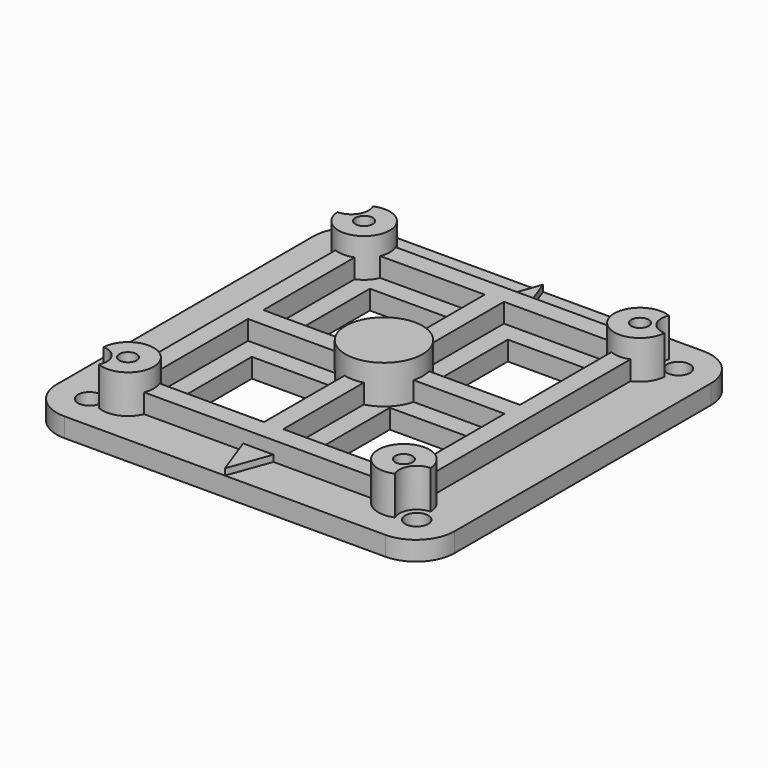
from build123d import *

# Parameters (mm, degrees)
F0_W      = 31
F0_H      = 31
F0_R      = 0.9
F1_DEPTH  = 1.5
F2_R      = 2
F2_R_2    = 0.675
F3_DEPTH  = 3
F4_R      = 3
F6_DEPTH  = 1.5
F7_W      = 6.25
F7_H      = 7
F8_DEPTH  = 25
F9_R      = 3
F10_DEPTH = 3
F11_DEPTH = 25
F12_R     = 1.35
F13_DEPTH = 25
F14_DEPTH = 25
F16_DEPTH = 0.5


with BuildPart() as f1:
    # F0 (on Top) → F1 (new body)
    with BuildSketch(Plane.XY):
        Rectangle(F0_W, F0_H)
        with Locations((-12.75, -12.75)):
            Circle(F0_R, mode=Mode.SUBTRACT)
        with Locations((12.75, -12.75)):
            Circle(F0_R, mode=Mode.SUBTRACT)
        with Locations((-12.75, 12.75)):
            Circle(F0_R, mode=Mode.SUBTRACT)
        with Locations((12.75, 12.75)):
            Circle(F0_R, mode=Mode.SUBTRACT)
    extrude(amount=F1_DEPTH)

    # F2 (on face) → F3 (join)
    with BuildSketch(Plane.XY.offset(1.5)):
        with Locations((-10.75, 11.5)):
            Circle(F2_R)
        with Locations((-10.75, 11.5)):
            Circle(F2_R_2, mode=Mode.SUBTRACT)
        with Locations((10.75, 11.5)):
            Circle(F2_R)
        with Locations((10.75, 11.5)):
            Circle(F2_R_2, mode=Mode.SUBTRACT)
        with Locations((10.75, -11.5)):
            Circle(F2_R)
        with Locations((10.75, -11.5)):
            Circle(F2_R_2, mode=Mode.SUBTRACT)
        with Locations((-10.75, -11.5)):
            Circle(F2_R)
        with Locations((-10.75, -11.5)):
            Circle(F2_R_2, mode=Mode.SUBTRACT)
    extrude(amount=F3_DEPTH)

    # F4
    f4_edges = [f1.edges().sort_by_distance(p)[0] for p in [
        (-15.5, 15.5, 0.75),
        (15.5, 15.5, 0.75),
        (15.5, -15.5, 0.75),
        (-15.5, -15.5, 0.75),
    ]]
    fillet(f4_edges, radius=F4_R)

    # F5 (on face) → F6 (join)
    with BuildSketch(Plane.XY.offset(1.5)):
        Polygon((-0.75, -10.75), (-8.8959503782, -10.75), (-8.8959503782, -12.25), (8.8959503782, -12.25), (8.8959503782, -10.75), (0.75, -10.75), align=None)
        Polygon((-0.75, -0.75), (-0.75, -10.75), (0.75, -10.75), (0.75, -0.75), (10, -0.75), (10, 0.75), (0.75, 0.75), (0.75, 10.75), (-0.75, 10.75), (-0.75, 0.75), (-10, 0.75), (-10, -0.75), align=None)
        Polygon((-10, -9.6459503782), (-10, -0.75), (-10, 0.75), (-10, 9.6459503782), (-11.5, 9.6459503782), (-11.5, -9.6459503782), align=None)
        Polygon((10, 0.75), (10, -0.75), (10, -9.6459503782), (11.5, -9.6459503782), (11.5, 9.6459503782), (10, 9.6459503782), align=None)
        Polygon((-8.8959503782, 10.75), (-0.75, 10.75), (0.75, 10.75), (8.8959503782, 10.75), (8.8959503782, 12.25), (-8.8959503782, 12.25), align=None)
    extrude(amount=F6_DEPTH)

    # F7 (on face) → F8 (cut)
    with BuildSketch(Plane.XY.offset(1.5)):
        with Locations((-5.375, 5.75)):
            Rectangle(F7_W, F7_H)
        with Locations((5.375, 5.75)):
            Rectangle(F7_W, F7_H)
        with Locations((5.375, -5.75)):
            Rectangle(F7_W, F7_H)
        with Locations((-5.375, -5.75)):
            Rectangle(F7_W, F7_H)
    extrude(amount=-F8_DEPTH, mode=Mode.SUBTRACT)

    # F9 (on face) → F10 (join, through all)
    with BuildSketch(Plane.XY.offset(1.5)):
        Circle(F9_R)
    extrude(amount=F10_DEPTH)

    # F11 (cut): faces of the model
    f11_faces = [f1.faces().sort_by_distance(p)[0] for p in [
        (-12.2340646667, -12.4275404167, 1.5),
        (-12.2340646667, 12.4275404167, 1.5),
        (12.2340646667, 12.4275404167, 1.5),
        (12.2340646667, -12.4275404167, 1.5),
    ]]
    extrude(f11_faces, amount=-F11_DEPTH, mode=Mode.SUBTRACT)

    # F12 (on face) → F13 (cut)
    with BuildSketch(Plane.XY.offset(1.5)):
        with Locations((-12.75, -12.75)):
            Circle(F12_R)
        with Locations((12.75, -12.75)):
            Circle(F12_R)
        with Locations((-12.75, 12.75)):
            Circle(F12_R)
        with Locations((12.75, 12.75)):
            Circle(F12_R)
    extrude(amount=F13_DEPTH, mode=Mode.SUBTRACT)

    # F14 (cut): faces of the model
    f14_faces = [f1.faces().sort_by_distance(p)[0] for p in [
        (10.75, 11.5, 1.5),
        (-10.75, 11.5, 1.5),
        (-10.75, -11.5, 1.5),
        (10.75, -11.5, 1.5),
    ]]
    extrude(f14_faces, amount=-F14_DEPTH, mode=Mode.SUBTRACT)

    # F15 (on face) → F16 (join)
    with BuildSketch(Plane.XY.offset(1.5)):
        Polygon((1.1829032614, 12.25), (0, 15.5), (-1.1829032614, 12.25), (0, 12.25), align=None)
        Polygon((-1.1829032614, -12.25), (0, -15.5), (1.1829032614, -12.25), (0, -12.25), align=None)
    extrude(amount=F16_DEPTH)


solid = f1.part
